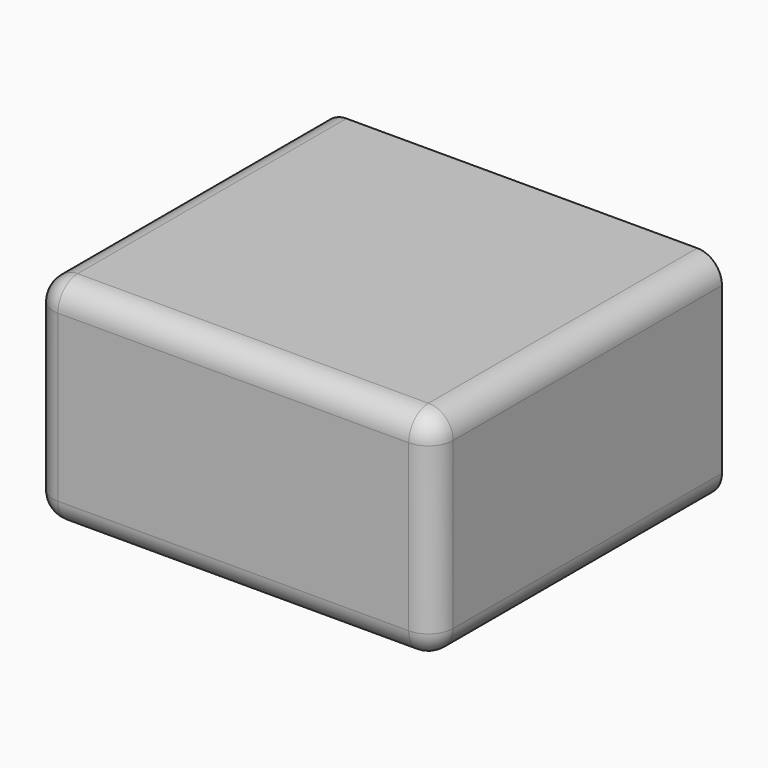
from build123d import *

# Parameters (mm, degrees)
F0_W     = 30
F0_H     = 15
F1_DEPTH = 1.2
F0_W_2   = 32.4
F0_H_2   = 17.4
F2_DEPTH = 29.2
F3_R     = 2


with BuildPart() as f1:
    # F0 (on Front) → F1 (new body)
    with BuildSketch(Plane.XZ):
        with Locations((0.849122, -7.366886)):
            Rectangle(F0_W, F0_H)
    extrude(amount=-F1_DEPTH)

    # F0 (on Front) → F2 (join)
    with BuildSketch(Plane.XZ):
        with Locations((0.849122, -7.366886)):
            Rectangle(F0_W_2, F0_H_2)
        with Locations((0.849122, -7.366886)):
            Rectangle(F0_W, F0_H, mode=Mode.SUBTRACT)
    extrude(amount=-F2_DEPTH)

    # F3
    f3_edges = [f1.edges().sort_by_distance(p)[0] for p in [
        (17.049122, 14.6, 1.333114),
        (0.849122, 0, 1.333114),
        (0.849122, 0, -16.066886),
        (17.049122, 0, -7.366886),
        (17.049122, 14.6, -16.066886),
        (-15.350878, 0, -7.366886),
        (-15.350878, 14.6, 1.333114),
        (-15.350878, 14.6, -16.066886),
    ]]
    fillet(f3_edges, radius=F3_R)


solid = f1.part
